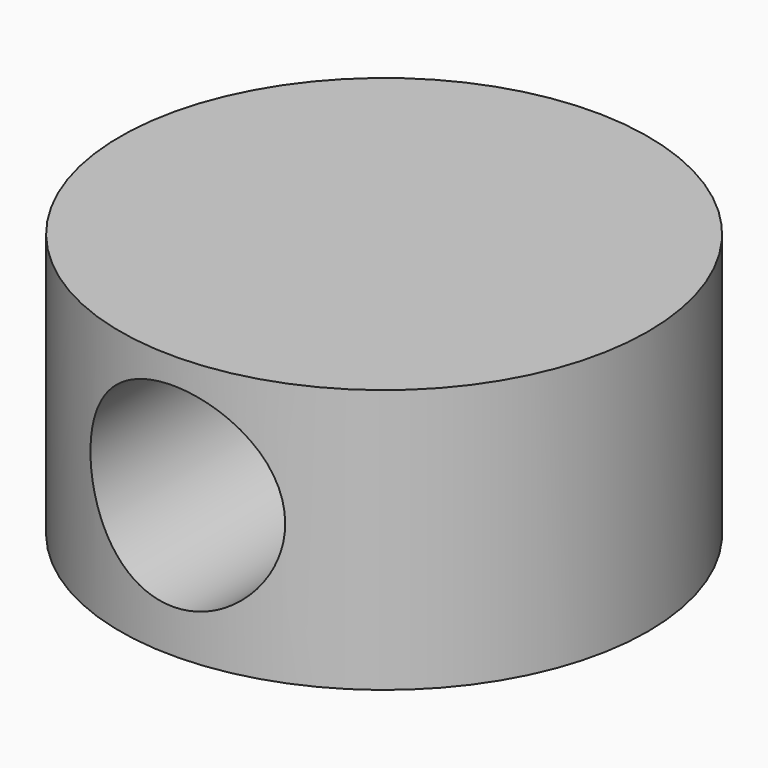
from build123d import *

# Parameters (mm, degrees)
F0_R     = 25.4
F1_DEPTH = 25.4
F2_R     = 9.370278
F3_DEPTH = 52.07


with BuildPart() as f1:
    # F0 (on Top) → F1 (new body)
    with BuildSketch(Plane.XY):
        Circle(F0_R)
    extrude(amount=F1_DEPTH)

    # F2 (on Front) → F3 (cut, symmetric)
    with BuildSketch(Plane.XZ):
        with Locations((0, 13.526871)):
            Circle(F2_R)
    extrude(amount=F3_DEPTH, both=True, mode=Mode.SUBTRACT)


solid = f1.part
